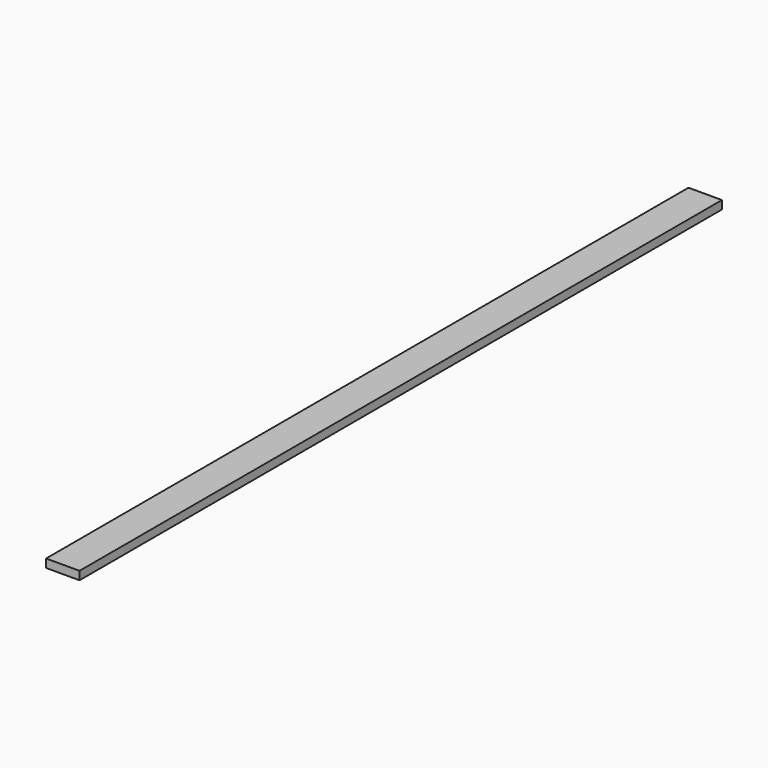
from build123d import *

# Parameters (mm, degrees)
F0_W     = 101.6
F0_H     = 25.4
F1_DEPTH = 2440


with BuildPart() as f1:
    # F0 (on Front) → F1 (new body)
    with BuildSketch(Plane.XZ):
        with Locations((0, 12.7)):
            Rectangle(F0_W, F0_H)
        with Locations((0, 12.7)):
            Rectangle(F0_W, F0_H)
    extrude(amount=-F1_DEPTH)


solid = f1.part
